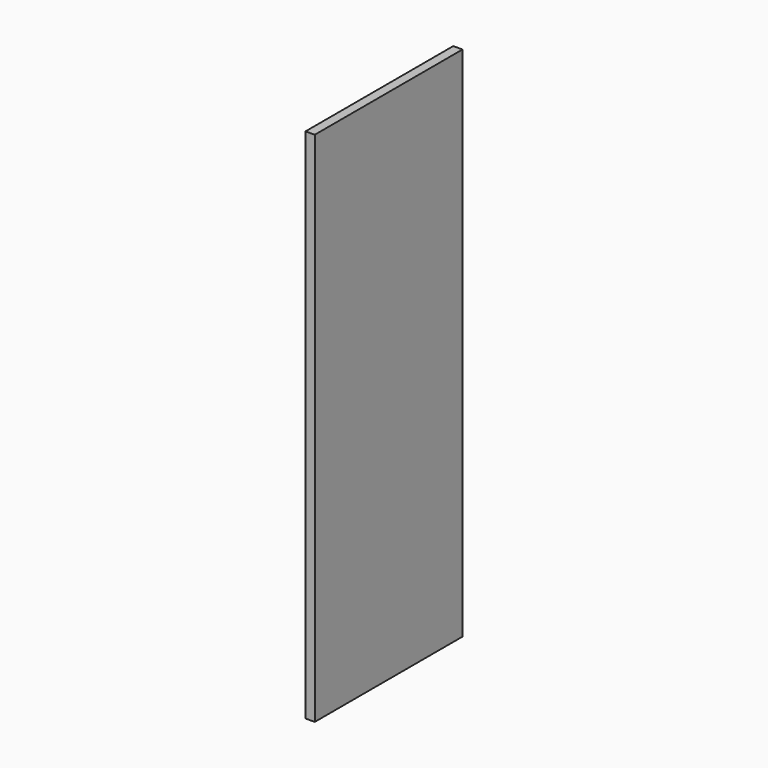
from build123d import *

# Parameters (mm, degrees)
F1_START      = -15
F1_DEPTH      = 15
F2_DEPTH      = 240
F2_DEPTH_BACK = 40
F3_START      = 215
F3_DEPTH      = 15


with BuildPart() as f1:
    # F0 (on Top) → F1 (new body)
    with BuildSketch(Plane.XY.offset(F1_START)):
        Polygon((0, 17.4), (0, 0), (0, -17.4), (1.25, -17.4), (1.25, -14.4), (10, -14.4), (10, 14.4), (1.25, 14.4), (1.25, 17.4), align=None)
    extrude(amount=-F1_DEPTH)

    # F0 (on Top) → F2 (join, two sides)
    with BuildSketch(Plane.XY) as f2_sk:
        Polygon((10, 50), (10, 14.4), (10, -14.4), (10, -50), (15, -50), (15, 0), (15, 50), align=None)
    extrude(amount=F2_DEPTH)
    extrude(f2_sk.sketch, amount=-F2_DEPTH_BACK)

    # F0 (on Top) → F3 (join)
    with BuildSketch(Plane.XY.offset(F3_START)):
        Polygon((0, 17.4), (0, 0), (0, -17.4), (1.25, -17.4), (1.25, -14.4), (10, -14.4), (10, 14.4), (1.25, 14.4), (1.25, 17.4), align=None)
    extrude(amount=F3_DEPTH)


solid = f1.part
